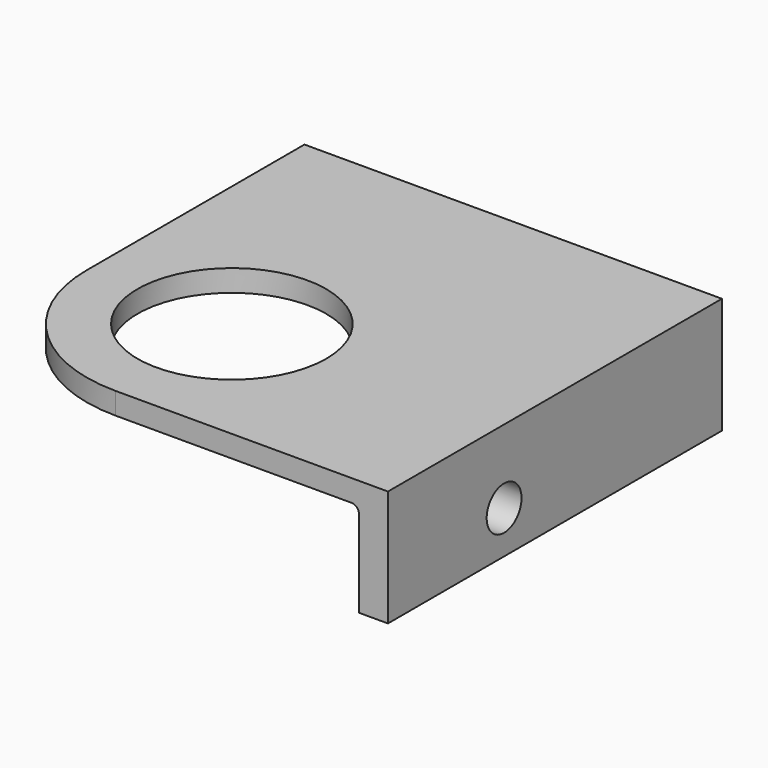
from build123d import *

# Parameters (mm, degrees)
SKETCH007_R     = 13
PAD003_DEPTH    = 3
PAD004_DEPTH    = 57.5
PAD005_DEPTH    = 57.5
SKETCH010_R     = 3
POCKET002_DEPTH = 37.501
SKETCH011_R     = 3
POCKET003_DEPTH = 37.501


with BuildPart() as part:
    # Sketch007 → Pad003 (new body)
    with BuildSketch(Plane.XY.offset(3)):
        with BuildLine():
            ThreePointArc((-20, 0), (-14.142136, -14.142136), (0, -20))
            Line((37.5, -20), (0, -20))
            Line((37.5, 37.5), (37.5, -20))
            Line((0, 37.5), (37.5, 37.5))
            Line((0, 37.5), (-20, 37.5))
            Line((-20, 37.5), (-20, 0))
        make_face()
        Circle(SKETCH007_R, mode=Mode.SUBTRACT)
    extrude(amount=PAD003_DEPTH)

    # Sketch008 → Pad004 (join)
    with BuildSketch(Plane.XZ.offset(20)):
        with BuildLine():
            Line((32.5, 3), (37.5, 3))
            Line((37.5, 3), (37.5, -10))
            Line((37.5, -10), (33.5, -10))
            Line((33.5, -10), (33.5, 2))
            ThreePointArc((33.5, 2), (33.207107, 2.707107), (32.5, 3))
        make_face()
    extrude(amount=-PAD004_DEPTH)

    # Sketch009 → Pad005 (join)
    with BuildSketch(Plane.YZ.offset(-20)):
        with BuildLine():
            Line((32.5, 3), (37.5, 3))
            Line((37.5, 3), (37.5, -10))
            Line((37.5, -10), (33.5, -10))
            Line((33.5, -10), (33.5, 2))
            ThreePointArc((33.5, 2), (33.207107, 2.707107), (32.5, 3))
        make_face()
    extrude(amount=PAD005_DEPTH)

    # Sketch010 → Pocket002 (cut, through all)
    with BuildSketch(Plane.YZ):
        with Locations((0, -4.137609)):
            Circle(SKETCH010_R)
    extrude(amount=POCKET002_DEPTH, mode=Mode.SUBTRACT)

    # Sketch011 → Pocket003 (cut, through all)
    with BuildSketch(Plane.XZ):
        with Locations((0, -4.137609)):
            Circle(SKETCH011_R)
    extrude(amount=-POCKET003_DEPTH, mode=Mode.SUBTRACT)


with BuildPart() as part_1:
    # Body001 placement: moved
    add(part.part.moved(Location((4, 0, 0))))


solid = part_1.part
